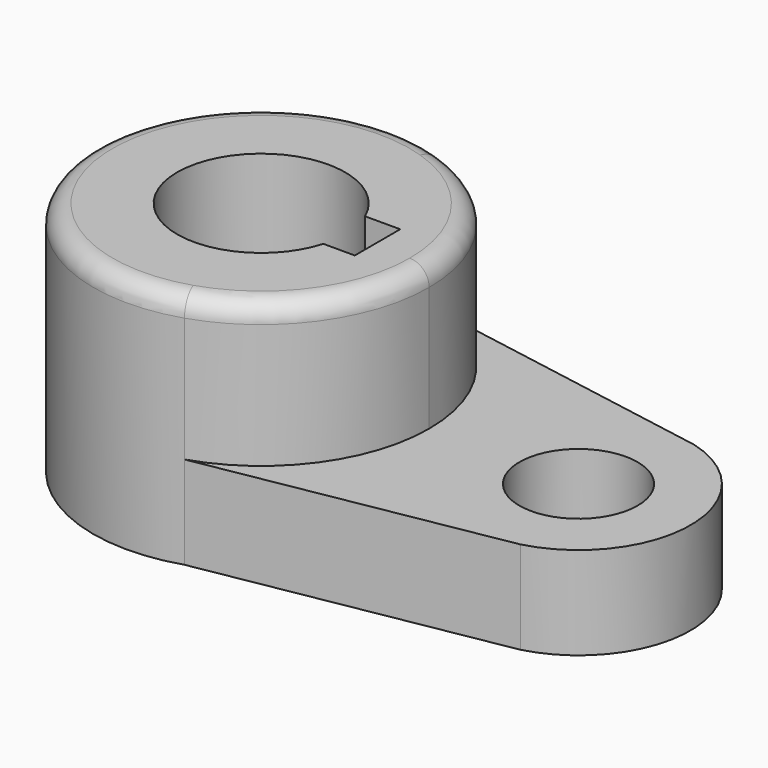
from build123d import *

# Parameters (mm, degrees)
F0_R     = 10.045225
F1_DEPTH = 15.7734
F2_DEPTH = 40.2336
F3_R     = 3.302


with BuildPart() as f1:
    # F0 (on Top) → F1 (new body)
    with BuildSketch(Plane.XY):
        with BuildLine():
            ThreePointArc((-19.276231, 27.17319), (-4.995638, 16.791712), (0.458613, 0))
            ThreePointArc((0.458613, 0), (-5.031754, -16.841329), (-19.39303, -27.210911))
            Line((-19.39303, -27.210911), (30.698986, -18.424801))
            ThreePointArc((30.698986, -18.424801), (44.908516, -0.061007), (30.816896, 18.393421))
            Line((30.816896, 18.393421), (-19.276231, 27.17319))
        make_face()
        with Locations((25.858613, 0)):
            Circle(F0_R, mode=Mode.SUBTRACT)
    extrude(amount=F1_DEPTH)

    # F0 (on Top) → F2 (join)
    with BuildSketch(Plane.XY):
        with BuildLine():
            ThreePointArc((-19.39303, -27.210911), (-5.031754, -16.841329), (0.458613, 0))
            ThreePointArc((0.458613, 0), (-4.995638, 16.791712), (-19.276231, 27.17319))
            ThreePointArc((-19.276231, 27.17319), (-56.691321, 0.061369), (-19.39303, -27.210911))
        make_face()
        with BuildLine():
            ThreePointArc((-14.385945, -3.95065), (-42.37357, -0.930265), (-15.015728, 5.70135))
            Line((-15.015728, 5.70135), (-9.030028, 5.70135))
            Line((-9.030028, 5.70135), (-9.030028, -3.95065))
            Line((-9.030028, -3.95065), (-14.385945, -3.95065))
        make_face(mode=Mode.SUBTRACT)
    extrude(amount=F2_DEPTH)

    # F3
    f3_edges = [f1.edges().sort_by_distance(p)[0] for p in [
        (-36.839744, 27.210911, 40.2336),
    ]]
    fillet(f3_edges, radius=F3_R)


solid = f1.part
